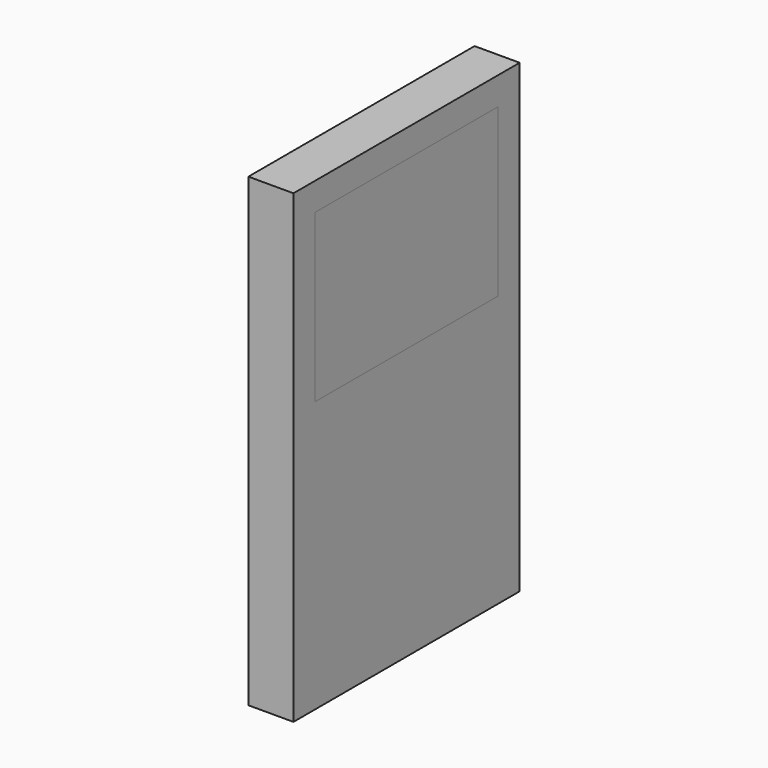
from build123d import *

# Parameters (mm, degrees)
F0_W     = 23.901107
F0_H     = 39.344369
F0_W_2   = 19.378568
F0_H_2   = 14.093503
F1_DEPTH = 1.905
F2_DEPTH = 1.905


with BuildPart() as f1:
    # F0 (on Right) → F1 (new body, symmetric)
    with BuildSketch(Plane.YZ):
        with Locations((-1e-06, 0.146807)):
            Rectangle(F0_W, F0_H)
        with Locations((0, 10.423322)):
            Rectangle(F0_W_2, F0_H_2, mode=Mode.SUBTRACT)
    extrude(amount=F1_DEPTH, both=True)


with BuildPart() as f2:
    # F0 (on Right) → F2 (new body, symmetric)
    with BuildSketch(Plane.YZ):
        with Locations((0, 10.423322)):
            Rectangle(F0_W_2, F0_H_2)
    extrude(amount=F2_DEPTH, both=True)


solid = Compound([f1.part, f2.part])
